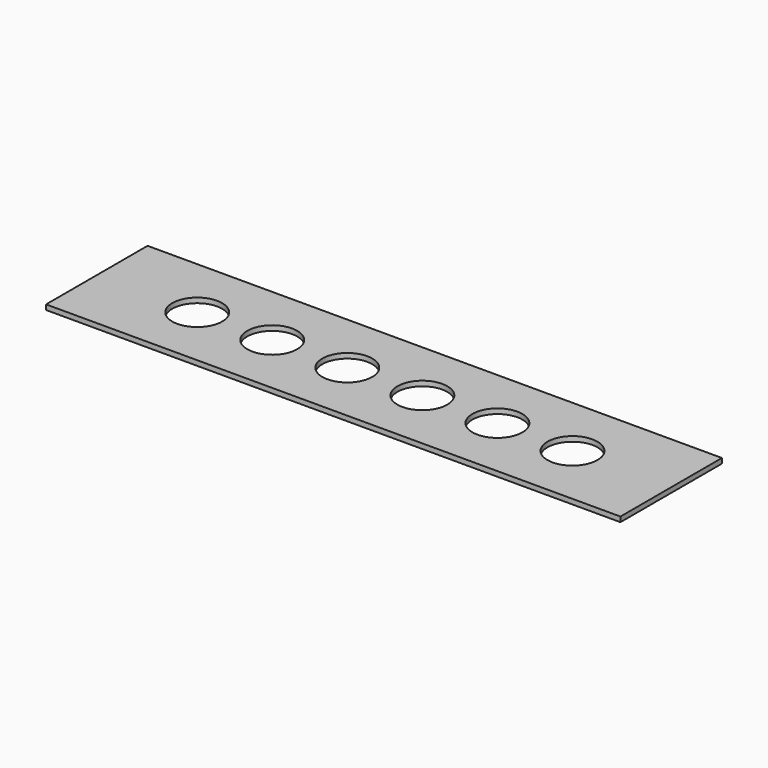
from build123d import *

# Parameters (mm, degrees)
BOX_W        = 115
BOX_H        = 25.4
BOX_DEPTH    = 1
SKETCH_R     = 5
POCKET_DEPTH = 5


with BuildPart() as part:
    # Box → Box (new body)
    with BuildSketch(Plane.XY):
        with Locations((57.5, 12.7)):
            Rectangle(BOX_W, BOX_H)
    extrude(amount=BOX_DEPTH)

    # Sketch (on Face6 of BaseFeature) → Pocket (cut)
    with BuildSketch(Plane.XY.offset(1)):
        with Locations((20.129845, 12.666176)):
            Circle(SKETCH_R)
        with Locations((35.153827, 12.6697)):
            Circle(SKETCH_R)
        with Locations((50.177809, 12.673224)):
            Circle(SKETCH_R)
        with Locations((65.201791, 12.676748)):
            Circle(SKETCH_R)
        with Locations((80.225773, 12.680272)):
            Circle(SKETCH_R)
        with Locations((95.249755, 12.683796)):
            Circle(SKETCH_R)
    extrude(amount=-POCKET_DEPTH, mode=Mode.SUBTRACT)


solid = part.part
